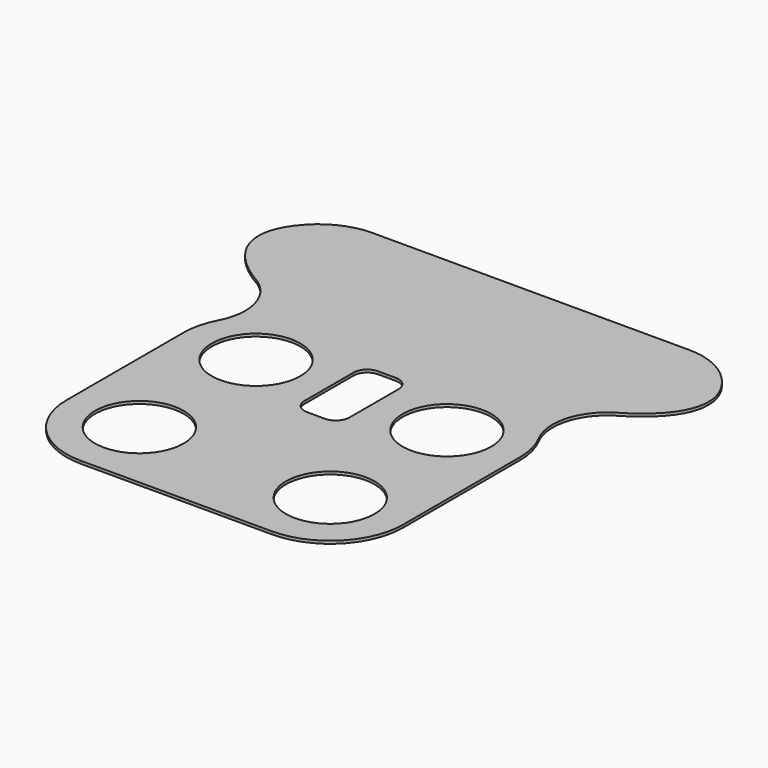
from build123d import *

# Parameters (mm, degrees)
F0_R     = 3.25
F0_W     = 3.3
F0_H     = 6.5
F1_DEPTH = 0.2
F2_R     = 5
F3_W     = 24.7
F3_H     = 0.02
F4_DEPTH = 0.02
F5_R     = 1


with BuildPart() as f1:
    # F0 (on Top) → F1 (new body)
    with BuildSketch(Plane.XY):
        with BuildLine():
            Line((13.2, 4.35), (-13.2, 4.35))
            add(Edge.make_bspline(
                [(-13.2, 4.35), (-20.78037737, -0.0910291662), (-13, -4.4647700118)],
                knots=[2.4980915448, 2.4980915448, 2.4980915448, 3.8050320878, 3.8050320878, 3.8050320878], degree=2, weights=[1, 0.7939788481, 1]))
            ThreePointArc((-13, -4.4647700118), (-11.3932239297, -6.7993510754), (-11.7365717654, -9.6125539381))
            ThreePointArc((-11.7365717654, -9.6125539381), (-12.1943796042, -10.8190157973), (-12.35, -12.1))
            Line((-12.35, -12.1), (-12.35, -22.8))
            ThreePointArc((-12.35, -22.8), (-10.7830212793, -26.5830212793), (-7, -28.15))
            Line((-7, -28.15), (7, -28.15))
            ThreePointArc((7, -28.15), (10.7830212793, -26.5830212793), (12.35, -22.8))
            Line((12.35, -22.8), (12.35, -12.1))
            ThreePointArc((12.35, -12.1), (12.1943796042, -10.8190157973), (11.7365717654, -9.6125539381))
            ThreePointArc((11.7365717654, -9.6125539381), (11.3932239297, -6.7993510754), (13, -4.4647700118))
            add(Edge.make_bspline(
                [(13, -4.4647700118), (20.78037737, -0.0910291662), (13.2, 4.35)],
                knots=[5.6197458729, 5.6197458729, 5.6197458729, 6.926686416, 6.926686416, 6.926686416], degree=2, weights=[1, 0.7939788481, 1]))
        make_face()
        with Locations((-7, -22.8)):
            Circle(F0_R, mode=Mode.SUBTRACT)
        with Locations((-7, -12.1)):
            Circle(F0_R, mode=Mode.SUBTRACT)
        with Locations((7, -22.8)):
            Circle(F0_R, mode=Mode.SUBTRACT)
        with Locations((0, -12.1)):
            Rectangle(F0_W, F0_H, mode=Mode.SUBTRACT)
        with Locations((7, -12.1)):
            Circle(F0_R, mode=Mode.SUBTRACT)
    extrude(amount=F1_DEPTH)

    # F2
    f2_edges = [f1.edges().sort_by_distance(p)[0] for p in [
        (13.2, 4.35, 0.1),
        (-13.2, 4.35, 0.1),
    ]]
    fillet(f2_edges, radius=F2_R)

    # F3 (on face) → F4 (cut)
    with BuildSketch(Plane(origin=(0, 0, 0), x_dir=(1, 0, 0), z_dir=(0, 0, -1))):
        with Locations((0, 17.45)):
            Rectangle(F3_W, F3_H)
    extrude(amount=-F4_DEPTH, mode=Mode.SUBTRACT)

    # F5
    f5_edges = [f1.edges().sort_by_distance(p)[0] for p in [
        (-1.65, -8.85, 0.1),
        (1.65, -8.85, 0.1),
        (-1.65, -15.35, 0.1),
        (1.65, -15.35, 0.1),
    ]]
    fillet(f5_edges, radius=F5_R)


solid = f1.part
